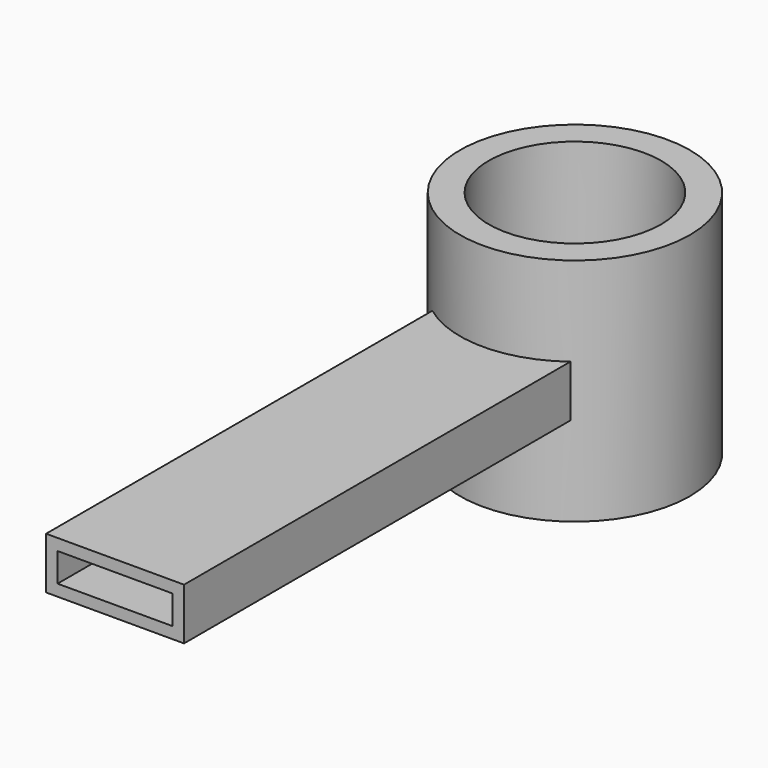
from build123d import *

# Parameters (mm, degrees)
F0_R          = 25.4
F0_R_2        = 19.05
F1_DEPTH      = 25.4
F1_DEPTH_BACK = 25.4
F2_W          = 30.48
F2_H          = 11.43
F2_W_2        = 25.4
F2_H_2        = 6.35
F3_DEPTH      = 127
F4_DEPTH      = 25.401
F4_DEPTH_BACK = 25.401


with BuildPart() as f1:
    # F0 (on Top) → F1 (new body, two sides)
    with BuildSketch(Plane.XY) as f1_sk:
        Circle(F0_R)
        Circle(F0_R_2, mode=Mode.SUBTRACT)
    extrude(amount=F1_DEPTH)
    extrude(f1_sk.sketch, amount=-F1_DEPTH_BACK)

    # F2 (on Front) → F3 (join)
    with BuildSketch(Plane.XZ):
        Rectangle(F2_W, F2_H)
        Rectangle(F2_W_2, F2_H_2, mode=Mode.SUBTRACT)
    extrude(amount=F3_DEPTH)

    # F0 (on Top) → F4 (cut, two sides)
    with BuildSketch(Plane.XY) as f4_sk:
        Circle(F0_R_2)
    extrude(amount=-F4_DEPTH, mode=Mode.SUBTRACT)
    extrude(f4_sk.sketch, amount=F4_DEPTH_BACK, mode=Mode.SUBTRACT)


solid = f1.part
